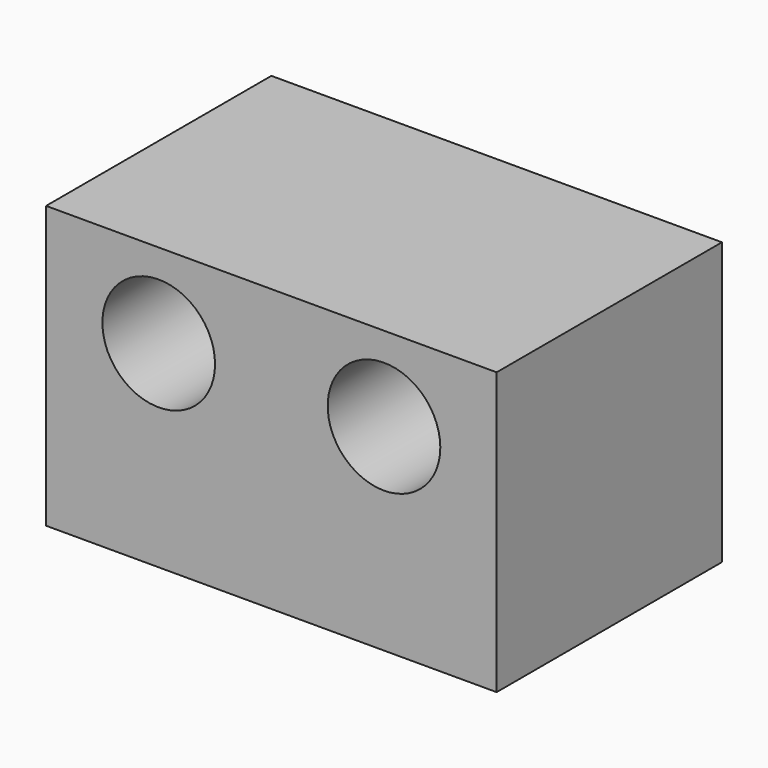
from build123d import *

# Parameters (mm, degrees)
F0_W     = 50
F0_H     = 50
F1_DEPTH = 80
F2_R     = 10
F3_DEPTH = 50


with BuildPart() as f1:
    # F0 (on Right) → F1 (new body)
    with BuildSketch(Plane.YZ):
        Rectangle(F0_W, F0_H)
    extrude(amount=-F1_DEPTH)

    # F2 (on face) → F3 (cut, through all)
    with BuildSketch(Plane.XZ.offset(25)):
        with Locations((-60, 10)):
            Circle(F2_R)
        with Locations((-20, 10)):
            Circle(F2_R)
    extrude(amount=-F3_DEPTH, mode=Mode.SUBTRACT)


solid = f1.part
